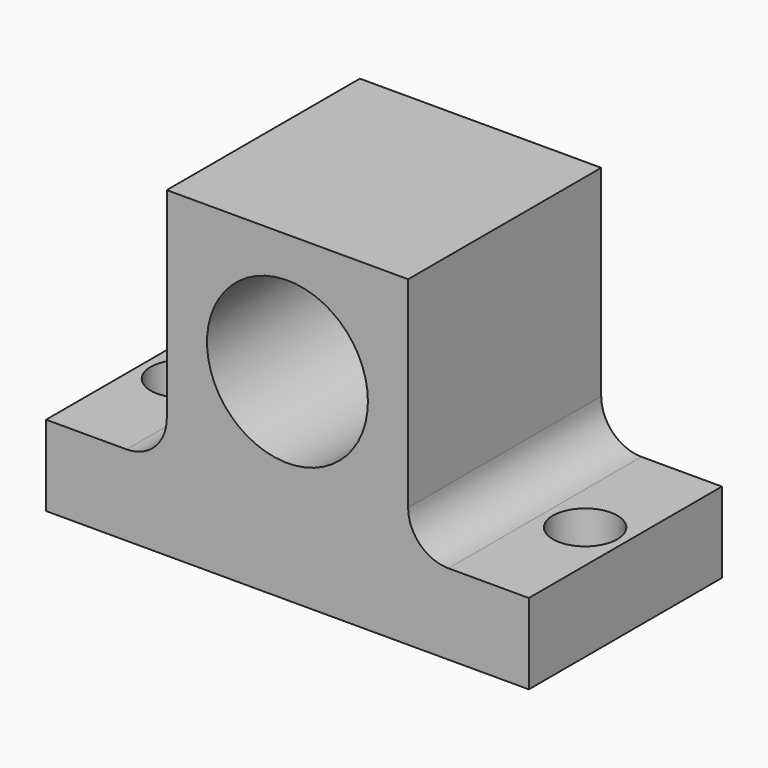
from build123d import *

# Parameters (mm, degrees)
F0_W      = 30
F0_H      = 15
F1_DEPTH  = 20
F2_W      = 5
F2_H      = 20
F3_DEPTH  = 25
F4_W      = 15
F4_H      = 5
F5_DEPTH  = 5
F6_W      = 5
F6_H      = 20
F7_DEPTH  = 25
F8_W      = 15
F8_H      = 5
F9_DEPTH  = 5
F10_W     = 2.5
F10_H     = 15
F11_DEPTH = 15
F12_R     = 2.5
F13_R     = 2.5
F14_R     = 5
F15_DEPTH = 20
F16_R     = 2
F17_DEPTH = 25
F18_R     = 2
F19_DEPTH = 25


with BuildPart() as f1:
    # F0 (on Top) → F1 (new body)
    with BuildSketch(Plane.XY):
        with Locations((-51.157456, -60.965211)):
            Rectangle(F0_W, F0_H)
    extrude(amount=F1_DEPTH)

    # F2 (on face) → F3 (cut)
    with BuildSketch(Plane.XZ.offset(68.465211)):
        with Locations((-63.657456, 10)):
            Rectangle(F2_W, F2_H)
    extrude(amount=-F3_DEPTH, mode=Mode.SUBTRACT)

    # F4 (on face) → F5 (join)
    with BuildSketch(Plane(origin=(-61.157456, 0, 0), x_dir=(0, -1, 0), z_dir=(-1, 0, 0))):
        with Locations((60.965211, 2.5)):
            Rectangle(F4_W, F4_H)
    extrude(amount=F5_DEPTH)

    # F6 (on face) → F7 (cut)
    with BuildSketch(Plane.XZ.offset(68.465211)):
        with Locations((-38.657456, 10)):
            Rectangle(F6_W, F6_H)
    extrude(amount=-F7_DEPTH, mode=Mode.SUBTRACT)

    # F8 (on face) → F9 (join)
    with BuildSketch(Plane.YZ.offset(-41.157456)):
        with Locations((-60.965211, 2.5)):
            Rectangle(F8_W, F8_H)
    extrude(amount=F9_DEPTH)

    # F10 (on face) → F11 (cut)
    with BuildSketch(Plane.XY.offset(20)):
        with Locations((-59.907456, -60.965211)):
            Rectangle(F10_W, F10_H)
        with Locations((-42.407456, -60.965211)):
            Rectangle(F10_W, F10_H)
    extrude(amount=-F11_DEPTH, mode=Mode.SUBTRACT)

    # F12
    f12_edges = [f1.edges().sort_by_distance(p)[0] for p in [
        (-43.657456, -60.965211, 5),
    ]]
    fillet(f12_edges, radius=F12_R)

    # F13
    f13_edges = [f1.edges().sort_by_distance(p)[0] for p in [
        (-58.657456, -60.965211, 5),
    ]]
    fillet(f13_edges, radius=F13_R)

    # F14 (on face) → F15 (cut)
    with BuildSketch(Plane.XZ.offset(68.465211)):
        with Locations((-51.157456, 12.5)):
            Circle(F14_R)
    extrude(amount=-F15_DEPTH, mode=Mode.SUBTRACT)

    # F16 (on face) → F17 (cut)
    with BuildSketch(Plane.XY.offset(5)):
        with Locations((-38.657456, -60.965211)):
            Circle(F16_R)
    extrude(amount=-F17_DEPTH, mode=Mode.SUBTRACT)

    # F18 (on face) → F19 (cut)
    with BuildSketch(Plane.XY.offset(5)):
        with Locations((-63.657456, -60.965211)):
            Circle(F18_R)
    extrude(amount=-F19_DEPTH, mode=Mode.SUBTRACT)


solid = f1.part
